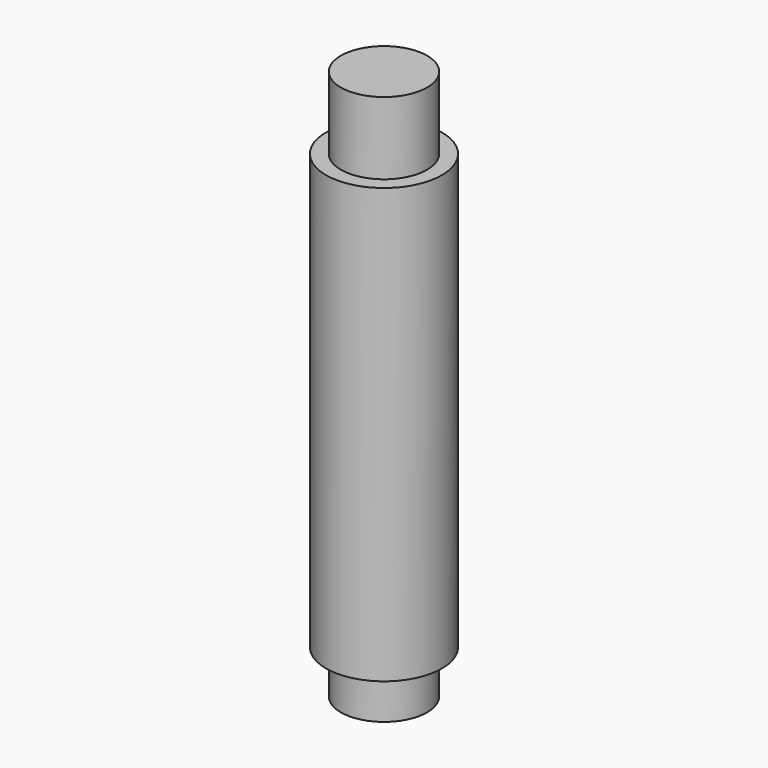
from build123d import *


with BuildPart() as f1:
    # F0 (on Right) → F1 (revolve)
    with BuildSketch(Plane.YZ):
        Polygon((-33.3456643127, 30.0602890267), (-33.2615717583, 30.0602890267), (-33.2615717583, 32.329430738), (-33.2615717583, 42.8342466983), (-33.2615717583, 45.0602890267), (-33.3456643127, 45.0602890267), (-33.8556643127, 45.0602890267), (-33.8556643127, 30.0602890267), align=None)
        Polygon((-33.2615717583, 45.0602890267), (-31.8556643127, 45.0602890267), (-31.8556643127, 47.5602890267), (-33.3456643127, 47.5602890267), (-33.3456643127, 45.0602890267), align=None)
        Polygon((-31.8556643127, 28.5602890267), (-31.8556643127, 30.0602890267), (-33.2615717583, 30.0602890267), (-33.3456643127, 30.0602890267), (-33.3456643127, 28.5602890267), align=None)
    revolve(axis=Axis((0, -31.8556643127, 37.5602890267), (0, 0, -1)))


solid = f1.part
